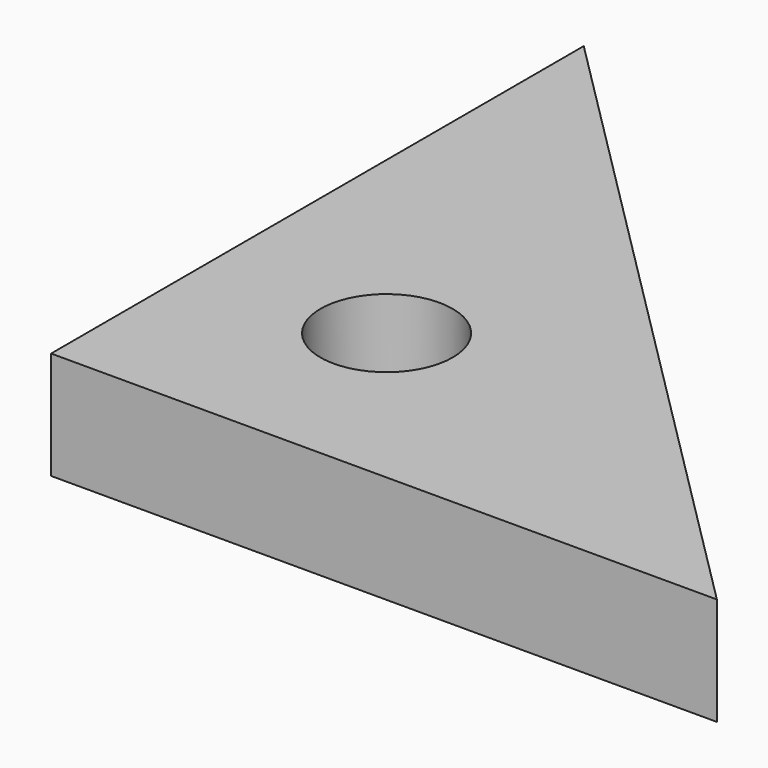
from build123d import *

# Parameters (mm, degrees)
F1_DEPTH = 10.2
F2_R     = 6.25
F3_DEPTH = 10.201


with BuildPart() as f1:
    # F0 (on Top) → F1 (new body)
    with BuildSketch(Plane.XY):
        Polygon((-17.31724, 44.969105), (-17.31724, -18.030895), (45.68276, -18.030895), align=None)
    extrude(amount=F1_DEPTH)

    # F2 (on face) → F3 (cut, through all)
    with BuildSketch(Plane.XY.offset(10.2)):
        Circle(F2_R)
    extrude(amount=-F3_DEPTH, mode=Mode.SUBTRACT)


solid = f1.part
